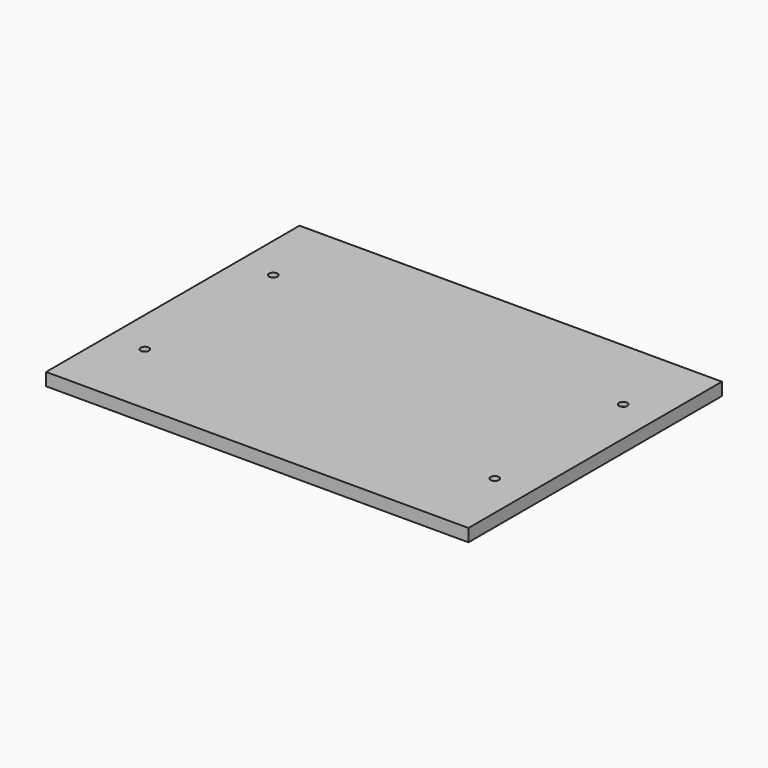
from build123d import *

# Parameters (mm, degrees)
F0_W     = 200
F0_H     = 150
F0_R     = 3.5
F0_R_2   = 2
F1_DEPTH = 6
F2_DEPTH = 4


with BuildPart() as f1:
    # F0 (on Top) → F1 (new body)
    with BuildSketch(Plane.XY):
        Rectangle(F0_W, F0_H)
        with Locations((-82.85, -38)):
            Circle(F0_R, mode=Mode.SUBTRACT)
        with Locations((82.85, -38)):
            Circle(F0_R, mode=Mode.SUBTRACT)
        with Locations((-82.85, 38)):
            Circle(F0_R, mode=Mode.SUBTRACT)
        with Locations((82.85, 38)):
            Circle(F0_R, mode=Mode.SUBTRACT)
        with Locations((-82.85, 38)):
            Circle(F0_R)
        with Locations((-82.85, 38)):
            Circle(F0_R_2, mode=Mode.SUBTRACT)
        with Locations((82.85, -38)):
            Circle(F0_R)
        with Locations((82.85, -38)):
            Circle(F0_R_2, mode=Mode.SUBTRACT)
        with Locations((82.85, 38)):
            Circle(F0_R)
        with Locations((82.85, 38)):
            Circle(F0_R_2, mode=Mode.SUBTRACT)
        with Locations((-82.85, -38)):
            Circle(F0_R)
        with Locations((-82.85, -38)):
            Circle(F0_R_2, mode=Mode.SUBTRACT)
    extrude(amount=F1_DEPTH)

    # F0 (on Top) → F2 (cut)
    with BuildSketch(Plane.XY):
        with Locations((-82.85, 38)):
            Circle(F0_R)
        with Locations((-82.85, 38)):
            Circle(F0_R_2, mode=Mode.SUBTRACT)
        with Locations((82.85, 38)):
            Circle(F0_R)
        with Locations((82.85, 38)):
            Circle(F0_R_2, mode=Mode.SUBTRACT)
        with Locations((82.85, -38)):
            Circle(F0_R)
        with Locations((82.85, -38)):
            Circle(F0_R_2, mode=Mode.SUBTRACT)
        with Locations((-82.85, -38)):
            Circle(F0_R)
        with Locations((-82.85, -38)):
            Circle(F0_R_2, mode=Mode.SUBTRACT)
    extrude(amount=F2_DEPTH, mode=Mode.SUBTRACT)


solid = f1.part
